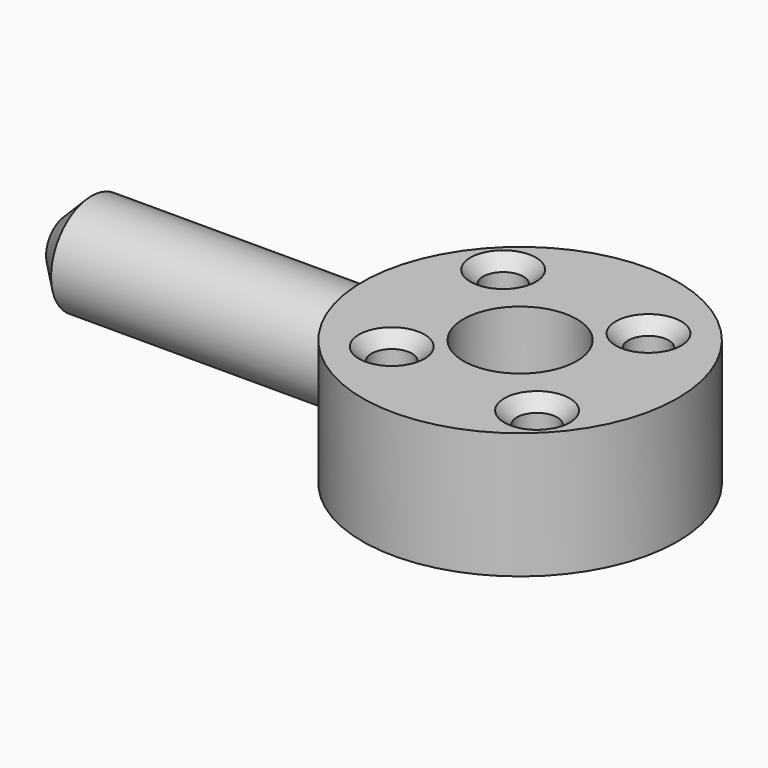
from build123d import *

# Parameters (mm, degrees)
SKETCH_R        = 12.5
SKETCH_R_2      = 4.5
SKETCH_R_3      = 1.6
PAD_DEPTH       = 10
SKETCH001_R     = 4
PAD001_DEPTH    = 28
CHAMFER_SIZE    = 2
CHAMFER001_SIZE = 1


with BuildPart() as part:
    # Sketch → Pad (new body)
    with BuildSketch(Plane.XY):
        Circle(SKETCH_R)
        Circle(SKETCH_R_2, mode=Mode.SUBTRACT)
        with Locations((-6.717514, 6.717514)):
            Circle(SKETCH_R_3, mode=Mode.SUBTRACT)
        with Locations((5.656854, 5.656854)):
            Circle(SKETCH_R_3, mode=Mode.SUBTRACT)
        with Locations((6.717514, -6.717514)):
            Circle(SKETCH_R_3, mode=Mode.SUBTRACT)
        with Locations((-5.656854, -5.656854)):
            Circle(SKETCH_R_3, mode=Mode.SUBTRACT)
    extrude(amount=PAD_DEPTH)

    # Sketch001 → Pad001 (join)
    with BuildSketch(Plane.YZ.offset(-8)):
        with Locations((0, 5)):
            Circle(SKETCH001_R)
    extrude(amount=-PAD001_DEPTH)

    # Chamfer
    chamfer_edges = [part.edges().sort_by_distance(p)[0] for p in [
        (-36, -4, 5),
    ]]
    chamfer(chamfer_edges, length=CHAMFER_SIZE)

    # Chamfer001
    chamfer001_edges = [part.edges().sort_by_distance(p)[0] for p in [
        (4.056854, 5.656854, 10),
        (5.117514, -6.717514, 10),
        (-7.256854, -5.656854, 10),
        (-8.317514, 6.717514, 10),
    ]]
    chamfer(chamfer001_edges, length=CHAMFER001_SIZE)


solid = part.part
